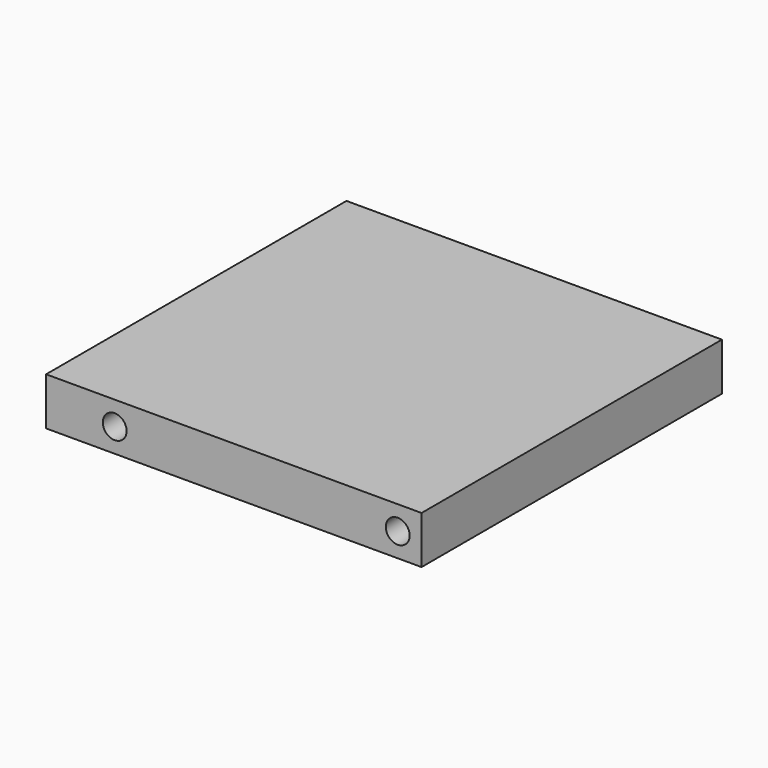
from build123d import *

# Parameters (mm, degrees)
F0_W     = 100.076
F0_H     = 100.076
F1_DEPTH = 12.7
F2_R     = 3.175
F3_DEPTH = 12.7
F4_R     = 3.175
F5_DEPTH = 12.7


with BuildPart() as f1:
    # F0 (on Top) → F1 (new body)
    with BuildSketch(Plane.XY):
        with Locations((50.038, -50.038)):
            Rectangle(F0_W, F0_H)
    extrude(amount=F1_DEPTH)

    # F2 (on face) → F3 (cut)
    with BuildSketch(Plane.XZ.offset(100.076)):
        with Locations((93.726, 6.35)):
            Circle(F2_R)
        with Locations((18.288, 6.35)):
            Circle(F2_R)
    extrude(amount=-F3_DEPTH, mode=Mode.SUBTRACT)

    # F4 (on face) → F5 (cut)
    with BuildSketch(Plane(origin=(0, 0, 0), x_dir=(-1, 0, 0), z_dir=(0, 1, 0))):
        with Locations((-93.726, 6.671018)):
            Circle(F4_R)
        with Locations((-18.288, 6.35)):
            Circle(F4_R)
    extrude(amount=-F5_DEPTH, mode=Mode.SUBTRACT)


solid = f1.part
